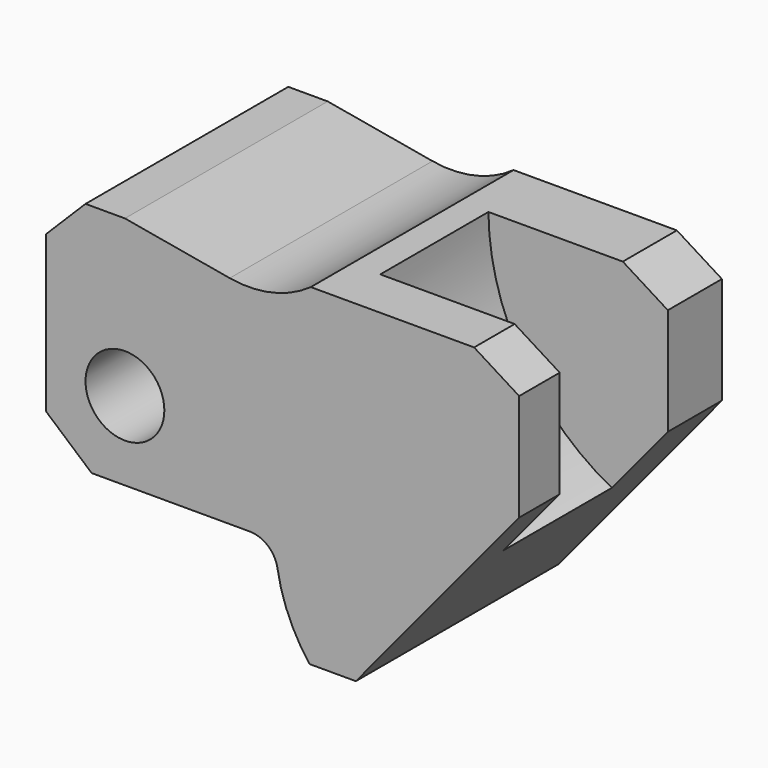
from build123d import *

# Parameters (mm, degrees)
F0_R          = 7
F1_DEPTH      = 45
F4_DEPTH      = 10.5
F4_DEPTH_BACK = 13.5


with BuildPart() as f1:
    # F0 (on Front) → F1 (new body)
    with BuildSketch(Plane.XZ):
        with BuildLine():
            Line((-33.5, 28.5), (-40.5, 21.5))
            Line((-40.5, 21.5), (-40.5, -6.2290436868))
            Line((-40.5, -6.2290436868), (-32.4062898078, -13.2290436868))
            Line((-32.4062898078, -13.2290436868), (-4.3396635525, -13.2290436868))
            ThreePointArc((-4.3396635525, -13.2290436868), (-1.1020136669, -14.4188437946), (0.5947737455, -17.4219943993))
            ThreePointArc((0.5947737455, -17.4219943993), (2.6248372639, -24.3164832501), (6.2880673968, -30.5))
            Line((6.2880673968, -30.5), (14.5, -30.5))
            Line((14.5, -30.5), (43.5, 4.5))
            Line((43.5, 4.5), (43.5, 23.5))
            Line((43.5, 23.5), (35.5, 28.5))
            Line((35.5, 28.5), (6.5, 28.5))
            ThreePointArc((6.5, 28.5), (-0.361821699, 25.4052447636), (-7.8869164215, 25.2180111709))
            Line((-7.8869164215, 25.2180111709), (-26.5, 28.5))
            Line((-26.5, 28.5), (-33.5, 28.5))
        make_face()
        with Locations((-26.5, 0.7709563132)):
            Circle(F0_R, mode=Mode.SUBTRACT)
    extrude(amount=F1_DEPTH)

    # F3 (on offset) → F4 (cut, two sides)
    with BuildSketch(Plane.XZ.offset(22.5)) as f4_sk:
        with BuildLine():
            Line((35.5, 28.5), (11.6408265143, 28.5))
            ThreePointArc((11.6408265143, 28.5), (17.6190851715, 7.4683040803), (33.5571428571, -7.5))
            Line((33.5571428571, -7.5), (43.5, 4.5))
            Line((43.5, 4.5), (43.5, 23.5))
            Line((43.5, 23.5), (35.5, 28.5))
        make_face()
    extrude(amount=-F4_DEPTH, mode=Mode.SUBTRACT)
    extrude(f4_sk.sketch, amount=F4_DEPTH_BACK, mode=Mode.SUBTRACT)


solid = f1.part
